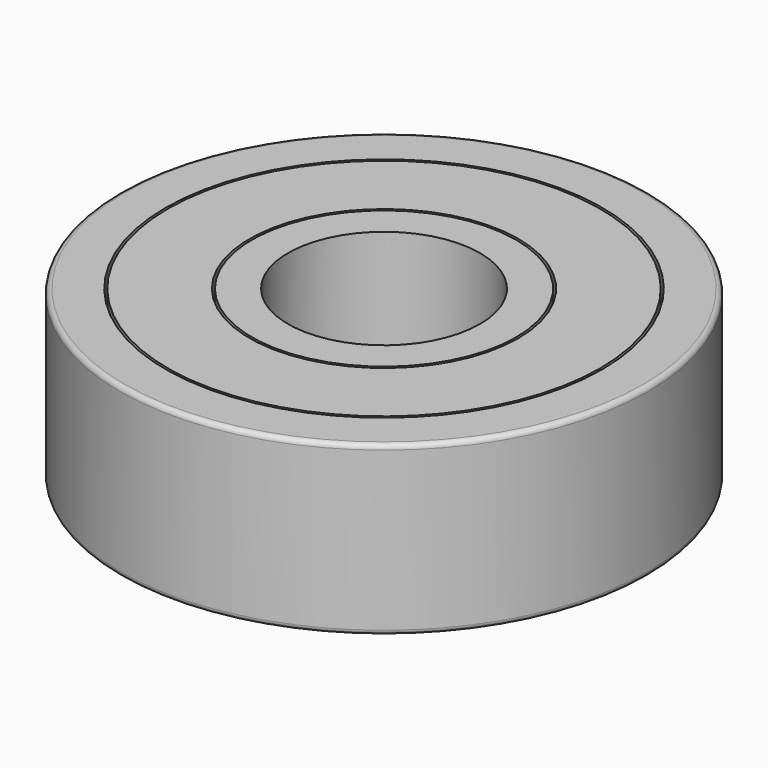
from build123d import *

# Parameters (mm, degrees)
SKETCH009_R     = 11
SKETCH009_R_2   = 4
PAD003_DEPTH    = 7
SKETCH011_R     = 5.6
SKETCH011_R_2   = 5.5
POCKET004_DEPTH = 1.5
SKETCH010_R     = 5.6
SKETCH010_R_2   = 5.5
POCKET007_DEPTH = 3
SKETCH008_R     = 9.1
SKETCH008_R_2   = 9
POCKET006_DEPTH = 1
SKETCH007_R     = 9.1
SKETCH007_R_2   = 9
POCKET005_DEPTH = 1
FILLET001_R     = 0.2


with BuildPart() as part:
    # Sketch009 → Pad003 (new body)
    with BuildSketch(Plane.XY):
        Circle(SKETCH009_R)
        Circle(SKETCH009_R_2, mode=Mode.SUBTRACT)
    extrude(amount=PAD003_DEPTH)

    # Sketch011 (on Face4 of Pad003) → Pocket004 (cut, symmetric)
    with BuildSketch(Plane.XY.offset(7)):
        Circle(SKETCH011_R)
        Circle(SKETCH011_R_2, mode=Mode.SUBTRACT)
    extrude(amount=POCKET004_DEPTH, both=True, mode=Mode.SUBTRACT)

    # Sketch010 (on Face2 of Pocket004) → Pocket007 (cut)
    with BuildSketch(Plane(origin=(0, 0, 0), x_dir=(1, 0, 0), z_dir=(0, 0, -1))):
        Circle(SKETCH010_R)
        Circle(SKETCH010_R_2, mode=Mode.SUBTRACT)
    extrude(amount=-POCKET007_DEPTH, mode=Mode.SUBTRACT)

    # Sketch008 (on Face3 of Pocket007) → Pocket006 (cut)
    with BuildSketch(Plane.XY.offset(7)):
        Circle(SKETCH008_R)
        Circle(SKETCH008_R_2, mode=Mode.SUBTRACT)
    extrude(amount=-POCKET006_DEPTH, mode=Mode.SUBTRACT)

    # Sketch007 (on Face2 of Pocket006) → Pocket005 (cut)
    with BuildSketch(Plane(origin=(0, 0, 0), x_dir=(1, 0, 0), z_dir=(0, 0, -1))):
        Circle(SKETCH007_R)
        Circle(SKETCH007_R_2, mode=Mode.SUBTRACT)
    extrude(amount=-POCKET005_DEPTH, mode=Mode.SUBTRACT)

    # Fillet001
    fillet001_edges = [part.edges().sort_by_distance(p)[0] for p in [
        (-11, 0, 0),
        (-11, 0, 7),
    ]]
    fillet(fillet001_edges, radius=FILLET001_R)


with BuildPart() as part_1:
    # Body003 placement: moved
    add(part.part.moved(Location((59, 0, -4))))


solid = part_1.part
